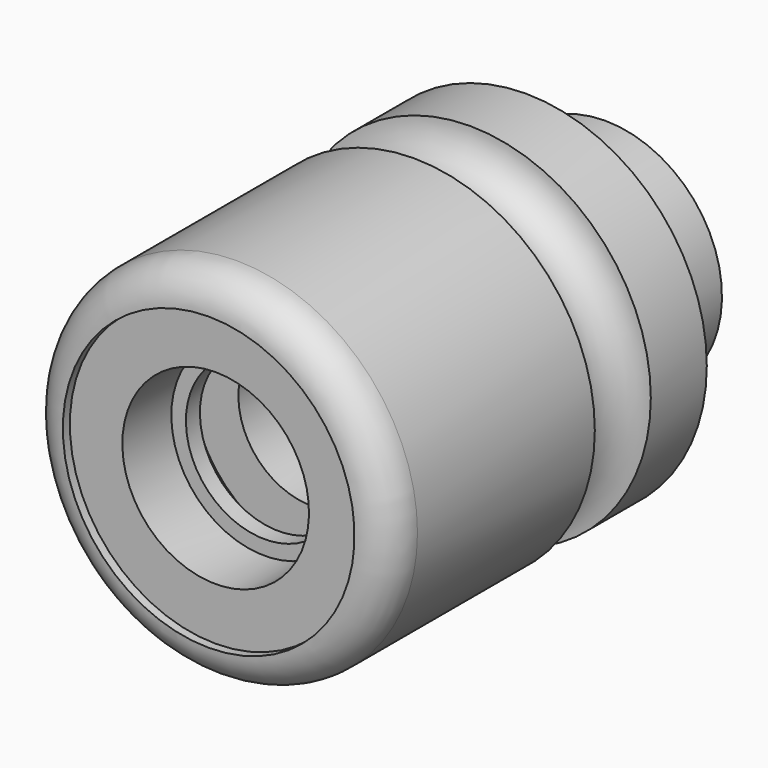
from build123d import *

# Parameters (mm, degrees)
F0_W   = 3
F0_H   = 16
F2_W   = 3
F2_H   = 13.5
F2_W_2 = 58
F2_H_2 = 6


with BuildPart() as f1:
    # F0 (on Right) → F1 (revolve)
    with BuildSketch(Plane.YZ):
        with BuildLine():
            Line((0, 25), (0, 0))
            Line((0, 0), (68, 0))
            Line((68, 0), (68, 20))
            Line((68, 20), (68, 31))
            Line((68, 31), (56, 31))
            ThreePointArc((56, 31), (50, 25), (44, 31))
            Line((44, 31), (6, 31))
            ThreePointArc((6, 31), (1.757359, 29.242641), (0, 25))
        make_face()
        Polygon((68, 20), (68, 0), (85, 0), (85, 16), (85, 20), align=None)
        with Locations((86.5, 8)):
            Rectangle(F0_W, F0_H)
    revolve(axis=Axis((0, 64.360574, 0), (0, 1, 0)))

    # F2 (on Right) → F3 (revolve, cut)
    with BuildSketch(Plane.YZ):
        Polygon((0, 25), (0, 0), (1.5, 0), (1.5, 16), (1.5, 25), align=None)
        Polygon((1.5, 16), (1.5, 0), (12, 0), (12, 13.5), (12, 16), align=None)
        with Locations((13.5, 6.75)):
            Rectangle(F2_W, F2_H)
        Polygon((15, 13.5), (15, 0), (22, 0), (22, 12.5), (22, 20.5), (15, 20.5), align=None)
        Polygon((22, 12.5), (22, 0), (30, 0), (30, 6), (30, 12.5), align=None)
        with Locations((59, 3)):
            Rectangle(F2_W_2, F2_H_2)
    revolve(axis=Axis((0, 48.310831, 0), (0, 1, 0)), mode=Mode.SUBTRACT)


solid = f1.part
